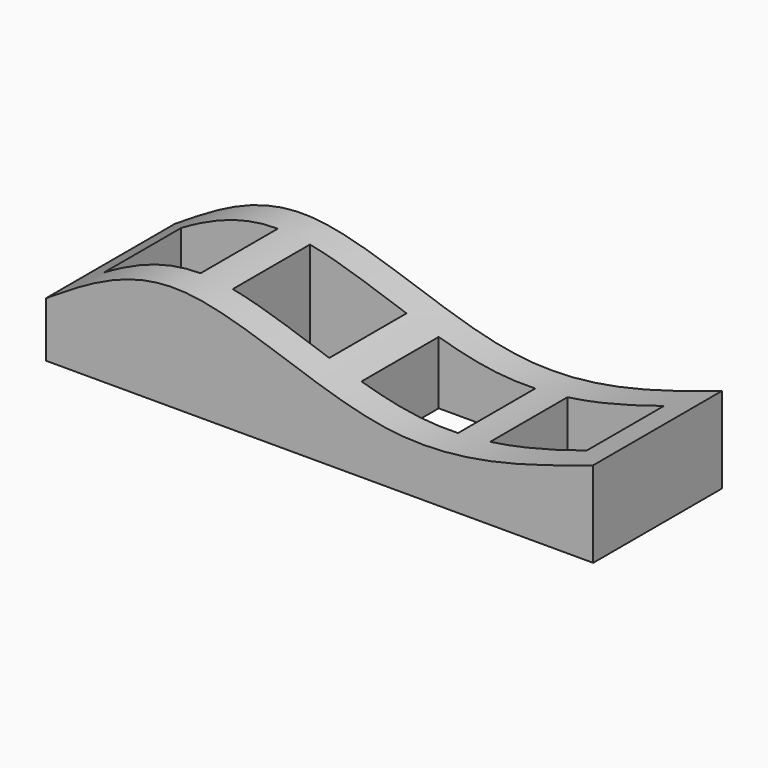
from build123d import *

# Parameters (mm, degrees)
F0_W     = 34
F0_H     = 10
F0_W_2   = 6
F0_H_2   = 6
F1_DEPTH = 8
F3_DEPTH = 25


with BuildPart() as f1:
    # F0 (on Top) → F1 (new body)
    with BuildSketch(Plane.XY):
        Rectangle(F0_W, F0_H)
        with Locations((-12, 0)):
            Rectangle(F0_W_2, F0_H_2, mode=Mode.SUBTRACT)
        with Locations((-4, 0)):
            Rectangle(F0_W_2, F0_H_2, mode=Mode.SUBTRACT)
        with Locations((4, 0)):
            Rectangle(F0_W_2, F0_H_2, mode=Mode.SUBTRACT)
        with Locations((12, 0)):
            Rectangle(F0_W_2, F0_H_2, mode=Mode.SUBTRACT)
    extrude(amount=F1_DEPTH)

    # F2 (on face) → F3 (cut)
    with BuildSketch(Plane.XZ.offset(5)):
        with BuildLine():
            Line((-17, 8), (-17, 3.4255662467))
            add(Edge.make_bspline(
                [(-17, 3.4255662467), (-14.4839407278, 5.034720914), (-8.8272313849, 8.6524895177), (4.409679576, 1.15052902), (12.8389931488, 3.9556428763), (17, 5.3403461352)],
                knots=[0, 0, 0, 0, 0.2885916145, 0.6488236984, 1, 1, 1, 1], degree=3))
            Line((17, 5.3403461352), (17, 8))
            Line((17, 8), (-17, 8))
        make_face()
    extrude(amount=-F3_DEPTH, mode=Mode.SUBTRACT)


solid = f1.part
